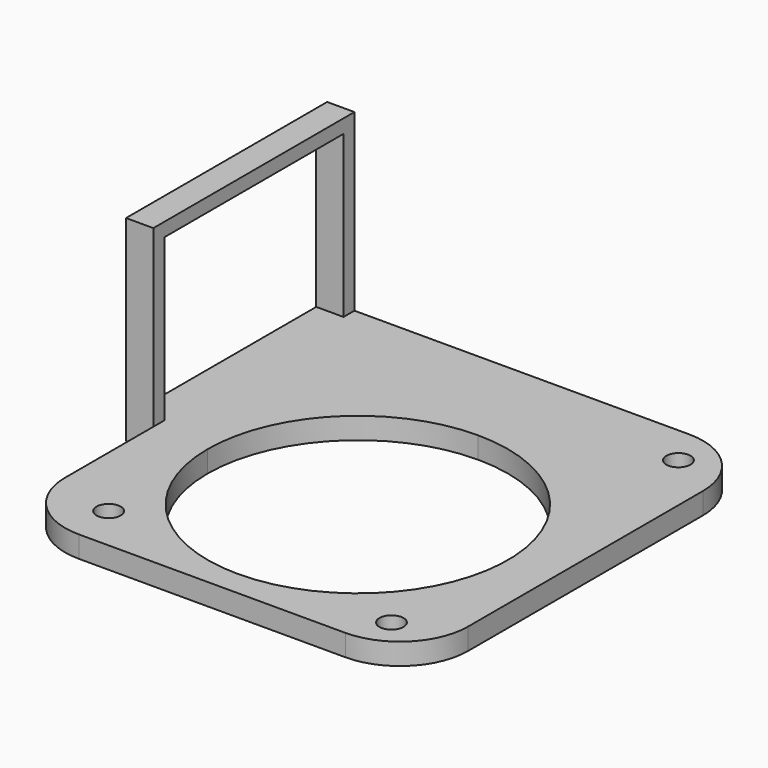
from build123d import *

# Parameters (mm, degrees)
F1_R     = 2.25
F2_DEPTH = 4
F3_W     = 46.78
F3_H     = 4
F3_H_2   = 32.54
F4_DEPTH = 5.08
F5_W     = 41.7
F5_H     = 30
F6_DEPTH = 25.4


with BuildPart() as f2:
    # F1 (on Top) → F2 (new body)
    with BuildSketch(Plane.XY):
        with BuildLine():
            Line((6.9206423996, 43.995959647), (-16.8793576004, 43.995959647))
            Line((-16.8793576004, 43.995959647), (-16.8793576004, 24.595959647))
            ThreePointArc((-16.8793576004, 24.595959647), (2.8772058659, 16.4125231134), (11.0606423996, -3.344040353))
            Line((11.0606423996, -3.344040353), (19.6206423996, -3.344040353))
            Line((19.6206423996, -3.344040353), (19.6206423996, 31.295959647))
            ThreePointArc((19.6206423996, 31.295959647), (15.9008985206, 40.2762157681), (6.9206423996, 43.995959647))
        make_face()
        with Locations((10.7806423996, 36.655959647)):
            Circle(F1_R, mode=Mode.SUBTRACT)
        with BuildLine():
            Line((19.6206423996, -3.344040353), (11.0606423996, -3.344040353))
            ThreePointArc((11.0606423996, -3.344040353), (2.8772058659, -23.1006038194), (-16.8793576004, -31.284040353))
            Line((-16.8793576004, -31.284040353), (-16.8793576004, -36.004040353))
            Line((-16.8793576004, -36.004040353), (6.9206423996, -36.004040353))
            ThreePointArc((6.9206423996, -36.004040353), (15.9008985206, -32.2842964741), (19.6206423996, -23.304040353))
            Line((19.6206423996, -23.304040353), (19.6206423996, -3.344040353))
        make_face()
        with Locations((10.1206423996, -29.264040353)):
            Circle(F1_R, mode=Mode.SUBTRACT)
        with BuildLine():
            Line((-44.8193576004, -3.344040353), (-55.3793576004, -3.344040353))
            Line((-55.3793576004, -3.344040353), (-55.3793576004, -23.304040353))
            ThreePointArc((-55.3793576004, -23.304040353), (-51.6596137215, -32.2842964741), (-42.6793576004, -36.004040353))
            Line((-42.6793576004, -36.004040353), (-16.8793576004, -36.004040353))
            Line((-16.8793576004, -36.004040353), (-16.8793576004, -31.284040353))
            ThreePointArc((-16.8793576004, -31.284040353), (-36.6359210668, -23.1006038194), (-44.8193576004, -3.344040353))
        make_face()
        with Locations((-43.8793576004, -27.554040353)):
            Circle(F1_R, mode=Mode.SUBTRACT)
        with BuildLine():
            Line((-16.8793576004, 43.995959647), (-55.3793576004, 43.995959647))
            Line((-55.3793576004, 43.995959647), (-55.3793576004, -3.344040353))
            Line((-55.3793576004, -3.344040353), (-44.8193576004, -3.344040353))
            ThreePointArc((-44.8193576004, -3.344040353), (-36.6359210668, 16.4125231134), (-16.8793576004, 24.595959647))
            Line((-16.8793576004, 24.595959647), (-16.8793576004, 43.995959647))
        make_face()
    extrude(amount=F2_DEPTH)

    # F3 (on face) → F4 (join)
    with BuildSketch(Plane(origin=(-55.3793576004, 0, 0), x_dir=(0, -1, 0), z_dir=(-1, 0, 0))):
        with Locations((-20.605959647, 2)):
            Rectangle(F3_W, F3_H)
        with Locations((-20.605959647, 20.27)):
            Rectangle(F3_W, F3_H_2)
    extrude(amount=F4_DEPTH)

    # F5 (on face) → F6 (cut)
    with BuildSketch(Plane(origin=(-60.4593576004, 0, 0), x_dir=(0, -1, 0), z_dir=(-1, 0, 0))):
        with Locations((-20.605959647, 19)):
            Rectangle(F5_W, F5_H)
    extrude(amount=-F6_DEPTH, mode=Mode.SUBTRACT)


solid = f2.part
